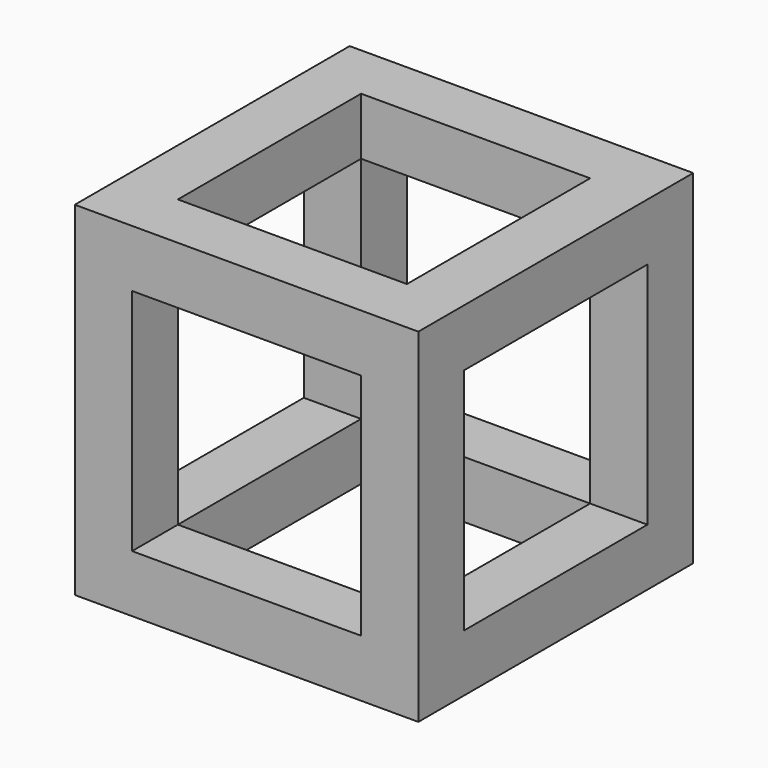
from build123d import *

# Parameters (mm, degrees)
F0_W     = 60
F0_H     = 60
F0_W_2   = 40
F0_H_2   = 40
F1_DEPTH = 30
F2_W     = 40
F2_H     = 40
F3_DEPTH = 60.001
F4_W     = 40
F4_H     = 40
F5_DEPTH = 60.001


with BuildPart() as f1:
    # F0 (on Front) → F1 (new body, symmetric)
    with BuildSketch(Plane.XZ):
        Rectangle(F0_W, F0_H)
        Rectangle(F0_W_2, F0_H_2, mode=Mode.SUBTRACT)
    extrude(amount=F1_DEPTH, both=True)

    # F2 (on face) → F3 (cut, through all)
    with BuildSketch(Plane.YZ.offset(30)):
        Rectangle(F2_W, F2_H)
    extrude(amount=-F3_DEPTH, mode=Mode.SUBTRACT)

    # F4 (on face) → F5 (cut, through all)
    with BuildSketch(Plane.XY.offset(30)):
        Rectangle(F4_W, F4_H)
    extrude(amount=-F5_DEPTH, mode=Mode.SUBTRACT)


solid = f1.part
